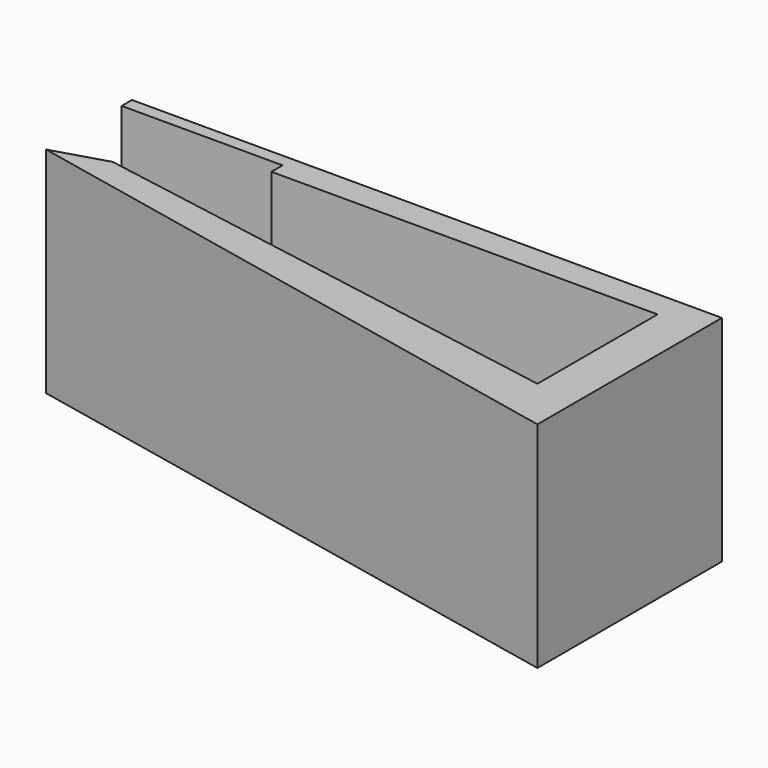
from build123d import *

# Parameters (mm, degrees)
PAD_DEPTH = 20


with BuildPart() as part:
    # Sketch → Pad (new body)
    with BuildSketch(Plane.XY):
        Polygon((-40, 22.5), (-4, 22.5), (-4, 8.5), (-50, 16.5), (-55, 14.989843), (0, 3.5), (0, 25), (-55, 25), (-55, 23.8), (-40, 23.8), align=None)
    extrude(amount=PAD_DEPTH)


solid = part.part
